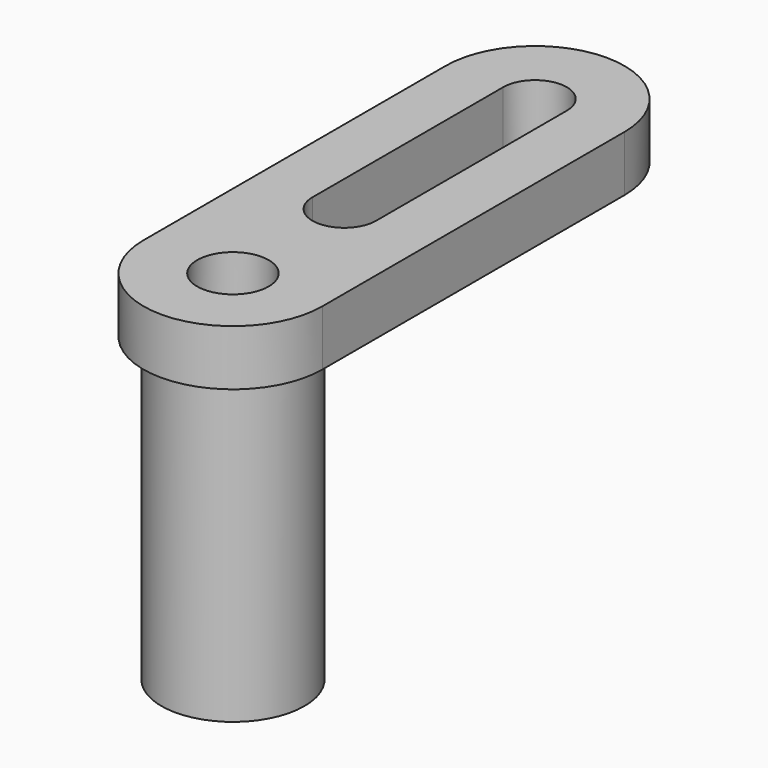
from build123d import *

# Parameters (mm, degrees)
F0_R     = 18
F0_R_2   = 9
F1_DEPTH = 14
F2_DEPTH = 76


with BuildPart() as f1:
    # F0 (on Top) → F1 (new body)
    with BuildSketch(Plane.XY):
        with BuildLine():
            Line((-5.814315, -38.89964), (-5.814315, 56.10036))
            ThreePointArc((-5.814315, 56.10036), (-28.314315, 78.60036), (-50.814315, 56.10036))
            Line((-50.814315, 56.10036), (-50.814315, -38.89964))
            ThreePointArc((-50.814315, -38.89964), (-28.314315, -61.39964), (-5.814315, -38.89964))
        make_face()
        with Locations((-28.314315, -38.89964)):
            Circle(F0_R, mode=Mode.SUBTRACT)
        with BuildLine():
            Line((-36.314315, -3.89964), (-36.314315, 56.10036))
            ThreePointArc((-36.314315, 56.10036), (-28.314315, 64.10036), (-20.314315, 56.10036))
            Line((-20.314315, 56.10036), (-20.314315, -3.89964))
            ThreePointArc((-20.314315, -3.89964), (-28.314315, -11.89964), (-36.314315, -3.89964))
        make_face(mode=Mode.SUBTRACT)
        with Locations((-28.314315, -38.89964)):
            Circle(F0_R)
        with Locations((-28.314315, -38.89964)):
            Circle(F0_R_2, mode=Mode.SUBTRACT)
    extrude(amount=F1_DEPTH)

    # F0 (on Top) → F2 (join)
    with BuildSketch(Plane.XY):
        with Locations((-28.314315, -38.89964)):
            Circle(F0_R)
        with Locations((-28.314315, -38.89964)):
            Circle(F0_R_2, mode=Mode.SUBTRACT)
    extrude(amount=-F2_DEPTH)


solid = f1.part
